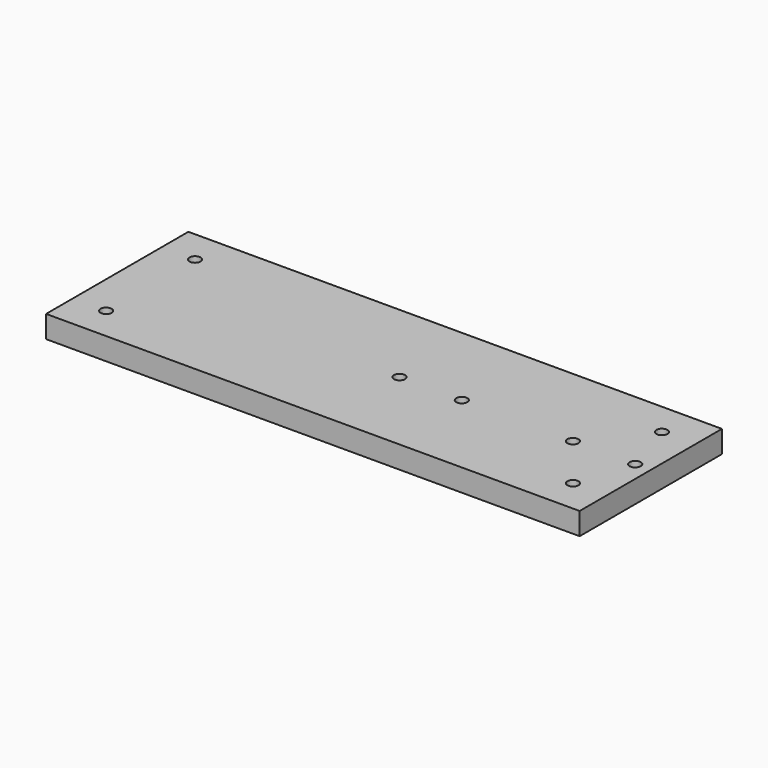
from build123d import *

# Parameters (mm, degrees)
F0_W     = 240
F0_H     = 80
F1_DEPTH = 10
F3_D     = 5


with BuildPart() as f1:
    # F0 (on Top) → F1 (new body)
    with BuildSketch(Plane.XY):
        Rectangle(F0_W, F0_H)
    extrude(amount=F1_DEPTH)

    # F3 (through all)
    with Locations(Plane.XY.offset(10)):
        with Locations((-105, 25), (-105, -25), (105, 25), (105, -25), (7, 0), (35, 0), (85, 0), (113, 0)):
            Hole(F3_D / 2)


solid = f1.part
